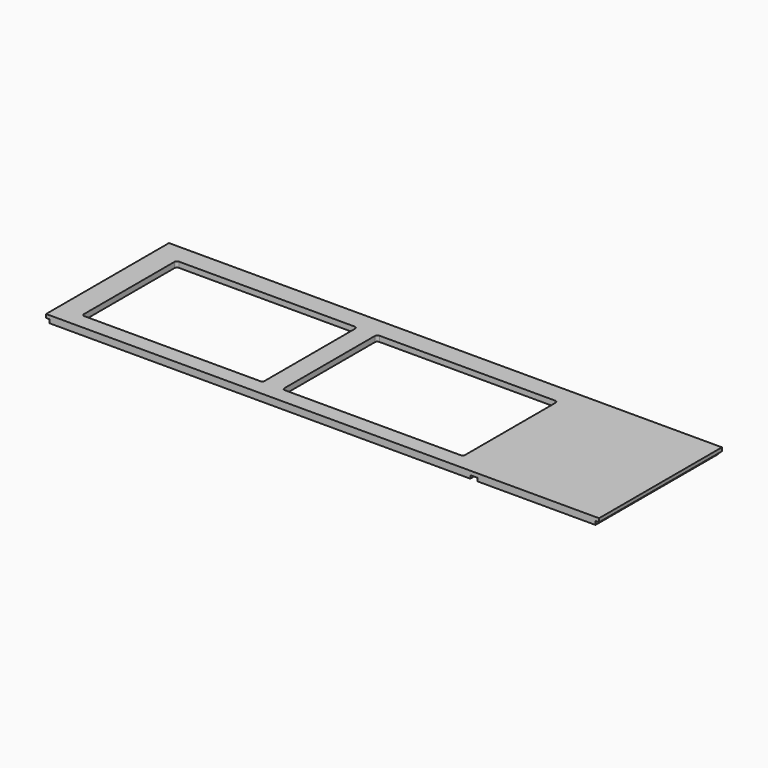
from build123d import *

# Parameters (mm, degrees)
SKETCH_W        = 1404
SKETCH_H        = 390
PAD_DEPTH       = 18
SKETCH001_W     = 9
SKETCH001_H     = 390
POCKET_DEPTH    = 9
SKETCH002_W     = 18
SKETCH002_H     = 390
POCKET001_DEPTH = 8
POCKET003_DEPTH = 18.001
SKETCH005_W     = 480
SKETCH005_H     = 320
POCKET004_DEPTH = 4
SKETCH006_R     = 2.5
POCKET005_DEPTH = 10


with BuildPart() as part:
    # Sketch → Pad (new body)
    with BuildSketch(Plane.XY):
        with Locations((-702, 195)):
            Rectangle(SKETCH_W, SKETCH_H)
    extrude(amount=PAD_DEPTH)

    # Sketch001 → Pocket (cut)
    with BuildSketch(Plane.XY):
        with Locations((-4.5, 195)):
            Rectangle(SKETCH001_W, SKETCH001_H)
        with Locations((-1399.5, 195)):
            Rectangle(SKETCH001_W, SKETCH001_H)
    extrude(amount=POCKET_DEPTH, mode=Mode.SUBTRACT)

    # Sketch002 (on Face4 of Pocket) → Pocket001 (cut)
    with BuildSketch(Plane(origin=(0, 0, 0), x_dir=(1, 0, 0), z_dir=(0, 0, -1))):
        with Locations((-318, -195)):
            Rectangle(SKETCH002_W, SKETCH002_H)
    extrude(amount=-POCKET001_DEPTH, mode=Mode.SUBTRACT)

    # Sketch004 → Pocket003 (cut, through all)
    with BuildSketch(Plane(origin=(0, 0, 0), x_dir=(1, 0, 0), z_dir=(0, 0, -1))):
        with BuildLine():
            Line((-383.35, -340), (-829.65, -340))
            ThreePointArc((-836, -333.65), (-834.140128, -338.140128), (-829.65, -340))
            Line((-836, -46.35), (-836, -333.65))
            ThreePointArc((-829.65, -40), (-834.140128, -41.859872), (-836, -46.35))
            Line((-383.35, -40), (-829.65, -40))
            ThreePointArc((-377, -46.35), (-378.859872, -41.859872), (-383.35, -40))
            Line((-377, -333.65), (-377, -46.35))
            ThreePointArc((-383.35, -340), (-378.859872, -338.140128), (-377, -333.65))
        make_face()
        with BuildLine():
            Line((-1345, -46.35), (-1345, -333.65))
            ThreePointArc((-1345, -333.65), (-1343.140128, -338.140128), (-1338.65, -340))
            Line((-1338.65, -340), (-892.35, -340))
            ThreePointArc((-892.35, -340), (-887.859872, -338.140128), (-886, -333.65))
            Line((-886, -333.65), (-886, -46.35))
            ThreePointArc((-886, -46.35), (-887.859872, -41.859872), (-892.35, -40))
            Line((-892.35, -40), (-1338.65, -40))
            ThreePointArc((-1338.65, -40), (-1343.140128, -41.859872), (-1345, -46.35))
        make_face()
    extrude(amount=-POCKET003_DEPTH, mode=Mode.SUBTRACT)

    # Sketch005 (on Face4 of Pocket003) → Pocket004 (cut)
    with BuildSketch(Plane(origin=(0, 0, 0), x_dir=(1, 0, 0), z_dir=(0, 0, -1))):
        with Locations((-606, -190)):
            Rectangle(SKETCH005_W, SKETCH005_H)
        with Locations((-1116, -190)):
            Rectangle(SKETCH005_W, SKETCH005_H)
    extrude(amount=-POCKET004_DEPTH, mode=Mode.SUBTRACT)

    # Sketch006 (on Face4 of Pocket004) → Pocket005 (cut)
    with BuildSketch(Plane(origin=(0, 0, 0), x_dir=(1, 0, 0), z_dir=(0, 0, -1))):
        with Locations((-433, -19)):
            Circle(SKETCH006_R)
        with Locations((-539, -19)):
            Circle(SKETCH006_R)
        with Locations((-645, -19)):
            Circle(SKETCH006_R)
        with Locations((-751, -19)):
            Circle(SKETCH006_R)
        with Locations((-857, -19)):
            Circle(SKETCH006_R)
        with Locations((-963, -19)):
            Circle(SKETCH006_R)
        with Locations((-1069, -19)):
            Circle(SKETCH006_R)
        with Locations((-1175, -19)):
            Circle(SKETCH006_R)
        with Locations((-1281, -19)):
            Circle(SKETCH006_R)
        with Locations((-433, -361)):
            Circle(SKETCH006_R)
        with Locations((-539, -361)):
            Circle(SKETCH006_R)
        with Locations((-645, -361)):
            Circle(SKETCH006_R)
        with Locations((-751, -361)):
            Circle(SKETCH006_R)
        with Locations((-857, -361)):
            Circle(SKETCH006_R)
        with Locations((-963, -361)):
            Circle(SKETCH006_R)
        with Locations((-1069, -361)):
            Circle(SKETCH006_R)
        with Locations((-1175, -361)):
            Circle(SKETCH006_R)
        with Locations((-1281, -361)):
            Circle(SKETCH006_R)
    extrude(amount=-POCKET005_DEPTH, mode=Mode.SUBTRACT)


solid = part.part
